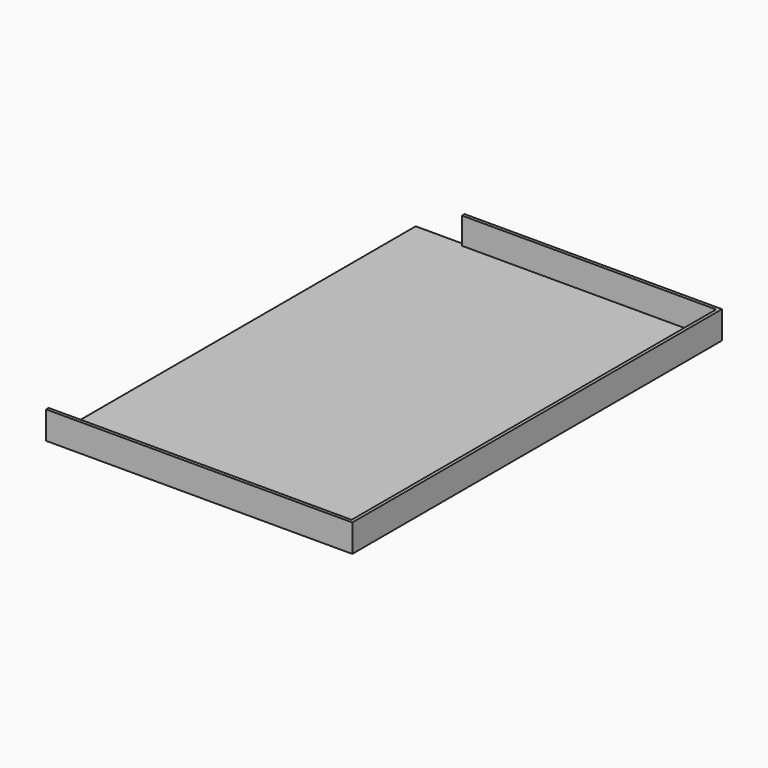
from build123d import *

# Parameters (mm, degrees)
F1_DEPTH = 20
F3_DEPTH = 500


with BuildPart() as f1:
    # F0 (on Top) → F1 (new body)
    with BuildSketch(Plane.XY):
        Polygon((-2215, 4337.5), (-2875, 4337.5), (-2875, 3543.10894), align=None)
        Polygon((2875, 4337.5), (-2215, 4337.5), (-2875, 3543.10894), (-2875, -4337.5), (2875, -4337.5), align=None)
    extrude(amount=F1_DEPTH)

    # F2 (on face) → F3 (join)
    with BuildSketch(Plane.XY.offset(20)):
        Polygon((2875, 4337.5), (-1958.812952, 4337.5), (-1958.812952, 4277.5), (2815, 4277.5), (2815, -4277.5), (-2875, -4277.5), (-2875, -4337.5), (2875, -4337.5), align=None)
    extrude(amount=F3_DEPTH)


solid = f1.part
